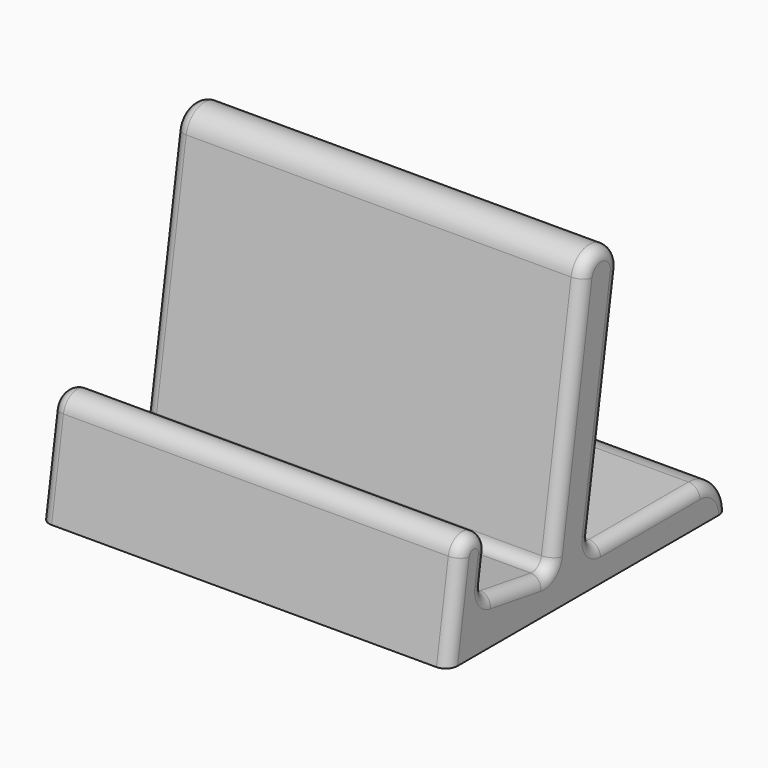
from build123d import *

# Parameters (mm, degrees)
F1_DEPTH = 44.45
F2_R     = 1.27


with BuildPart() as f1:
    # F0 (on Right) → F1 (new body)
    with BuildSketch(Plane.YZ):
        with BuildLine():
            Line((-38.1, 0), (0, 0))
            ThreePointArc((0, 0), (-1.115923, 2.694077), (-3.81, 3.81))
            Line((-3.81, 3.81), (-17.36179, 3.81))
            ThreePointArc((-17.36179, 3.81), (-18.328476, 4.256339), (-18.615683, 5.281626))
            Line((-18.615683, 5.281626), (-14.777693, 29.149725))
            ThreePointArc((-14.777693, 29.149725), (-16.875468, 32.051414), (-19.777157, 29.953639))
            Line((-19.777157, 29.953639), (-23.809675, 4.875784))
            ThreePointArc((-23.809675, 4.875784), (-24.326052, 4.037572), (-25.283891, 3.81))
            Line((-25.283891, 3.81), (-32.148087, 4.913762))
            ThreePointArc((-32.148087, 4.913762), (-32.986299, 5.430139), (-33.213871, 6.387978))
            Line((-33.213871, 6.387978), (-32.732284, 9.382923))
            ThreePointArc((-32.732284, 9.382923), (-34.310684, 11.566201), (-36.493962, 9.987801))
            Line((-36.493962, 9.987801), (-38.1, 0))
        make_face()
    extrude(amount=-F1_DEPTH)

    # F2
    f2_edges = [f1.edges().sort_by_distance(p)[0] for p in [
        (0, -21.793416, 17.414711),
        (-44.45, -21.793416, 17.414711),
    ]]
    fillet(f2_edges, radius=F2_R)


solid = f1.part
